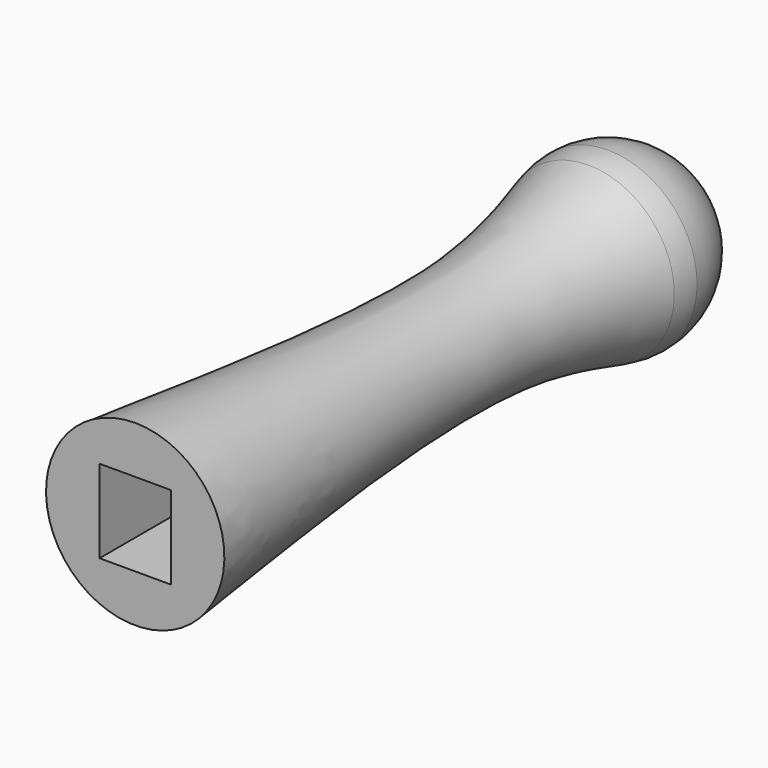
from build123d import *

# Parameters (mm, degrees)
F2_W     = 6
F2_H     = 7
F3_DEPTH = 10


with BuildPart() as f1:
    # F0 (on Right) → F1 (revolve)
    with BuildSketch(Plane.YZ):
        with BuildLine():
            Line((0, 7.5), (0, 0))
            Line((0, 0), (42.1953116665, 0))
            ThreePointArc((42.1953116665, 0), (43.7143287047, 4.5252450553), (47.6560697492, 7.2174436196))
            add(Edge.make_bspline(
                [(0, 7.5), (13.0958262147, 6.0610949307), (34.1310230928, 3.6833517316), (44.0724919495, 6.2049269381), (47.6560697492, 7.2174436196)],
                knots=[0, 0, 0, 0, 0.6230041079, 1, 1, 1, 1], degree=3))
        make_face()
        with BuildLine():
            ThreePointArc((47.6560697492, 7.2174436196), (43.7143287047, 4.5252450553), (42.1953116665, 0))
            Line((42.1953116665, 0), (49.6953116665, 0))
            Line((49.6953116665, 0), (49.6953116665, 7.5))
            ThreePointArc((49.6953116665, 7.5), (48.6659495211, 7.4290250756), (47.6560697492, 7.2174436196))
        make_face()
        with BuildLine():
            Line((49.6953116665, 7.5), (49.6953116665, 0))
            Line((49.6953116665, 0), (57.1953116665, 0))
            ThreePointArc((57.1953116665, 0), (54.9986125254, 5.3033008589), (49.6953116665, 7.5))
        make_face()
    revolve(axis=Axis((0, 28.5976558333, 0), (0, 1, 0)))

    # F2 (on face) → F3 (cut)
    with BuildSketch(Plane.XZ):
        Rectangle(F2_W, F2_H)
    extrude(amount=-F3_DEPTH, mode=Mode.SUBTRACT)


solid = f1.part
